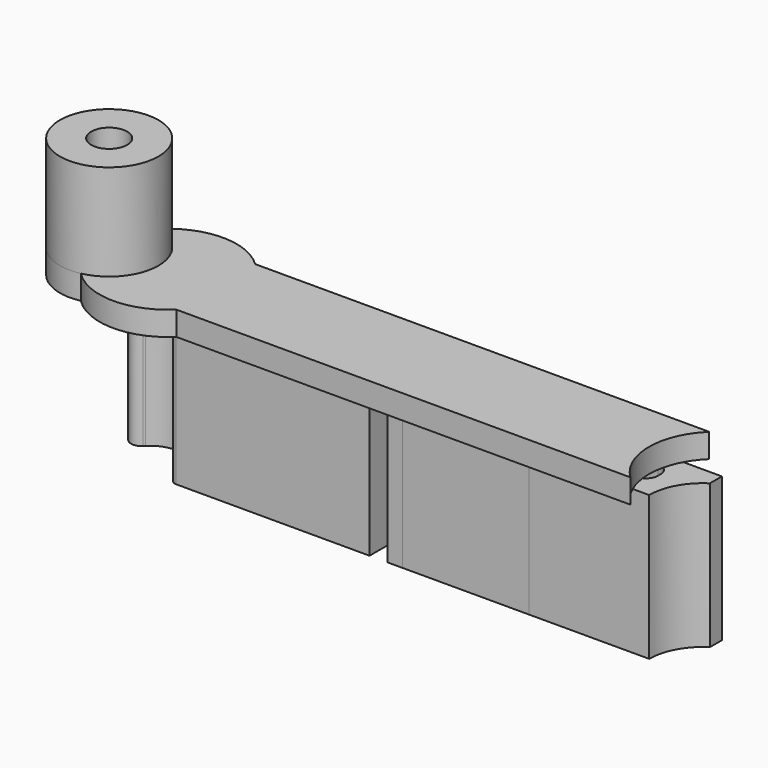
from build123d import *

# Parameters (mm, degrees)
F1_DEPTH = 2
F2_R     = 4.1
F2_R_2   = 1.5
F3_DEPTH = 8
F5_DEPTH = 12


with BuildPart() as f1:
    # F0 (on Top) → F1 (new body)
    with BuildSketch(Plane.XY):
        with BuildLine():
            ThreePointArc((-16.1402020254, 4.1), (-20.1, 5.7), (-24.0597979746, 4.1))
            Line((-24.0597979746, 4.1), (-16.1402020254, 4.1))
        make_face()
        with BuildLine():
            Line((-16.1402020254, 4.1), (-24.0597979746, 4.1))
            ThreePointArc((-24.0597979746, 4.1), (-24.1051466384, 4.0557120713), (-24.15, 4.0109225871))
            ThreePointArc((-24.15, 4.0109225871), (-29.1, 0), (-24.15, -4.0109225871))
            ThreePointArc((-24.15, -4.0109225871), (-24.1051466384, -4.0557120713), (-24.0597979746, -4.1))
            Line((-24.0597979746, -4.1), (-16.1402020254, -4.1))
            Line((-16.1402020254, -4.1), (21.6402020254, -4.1))
            ThreePointArc((21.6402020254, -4.1), (19.9, 0), (21.6402020254, 4.1))
            Line((21.6402020254, 4.1), (-16.1402020254, 4.1))
        make_face()
        with BuildLine():
            Line((-16.1402020254, -4.1), (-24.0597979746, -4.1))
            ThreePointArc((-24.0597979746, -4.1), (-20.1, -5.7), (-16.1402020254, -4.1))
        make_face()
    extrude(amount=F1_DEPTH)

    # F2 (on face) → F3 (join)
    with BuildSketch(Plane.XY.offset(2)):
        with Locations((-25, 0)):
            Circle(F2_R)
        with Locations((-25, 0)):
            Circle(F2_R_2, mode=Mode.SUBTRACT)
    extrude(amount=F3_DEPTH)

    # F4 (on face) → F5 (join)
    with BuildSketch(Plane(origin=(0, 0, 0), x_dir=(1, 0, 0), z_dir=(0, 0, -1))):
        with BuildLine():
            Line((-23.8593048022, -1.7426615038), (-22.7605585052, -2.7))
            Line((-22.7605585052, -2.7), (-1.5, -2.7))
            Line((-1.5, -2.7), (-1.5, 2.3))
            Line((-1.5, 2.3), (-17.5988609143, 2.3))
            ThreePointArc((-17.5988609143, 2.3), (-17.986159249, 2.116227766), (-18.0887588629, 1.7))
            ThreePointArc((-18.0887588629, 1.7), (-19.4175132364, -1.1369373376), (-22.5168783934, -0.6811553006))
            Line((-22.5168783934, -0.6811553006), (-22.6406951978, -0.5573384962))
            ThreePointArc((-22.6406951978, -0.5573384962), (-23.8426615038, -0.5406951978), (-23.8593048022, -1.7426615038))
        make_face()
        with BuildLine():
            ThreePointArc((-15.5, -1.45), (-16.2071067812, -1.1571067812), (-16.5, -0.45))
            Line((-16.5, -0.45), (-16.5, -0.2))
            ThreePointArc((-16.5, -0.2), (-16.2071067812, 0.5071067812), (-15.5, 0.8))
            Line((-15.5, 0.8), (-10.75, 0.8))
            ThreePointArc((-10.75, 0.8), (-10.0428932188, 0.5071067812), (-9.75, -0.2))
            Line((-9.75, -0.2), (-9.75, -0.45))
            ThreePointArc((-9.75, -0.45), (-10.0428932188, -1.1571067812), (-10.75, -1.45))
            Line((-10.75, -1.45), (-15.5, -1.45))
        make_face(mode=Mode.SUBTRACT)
        with BuildLine():
            Line((-2.75, -0.2), (-2.75, -0.45))
            ThreePointArc((-2.75, -0.45), (-3.0428932188, -1.1571067812), (-3.75, -1.45))
            Line((-3.75, -1.45), (-7.5, -1.45))
            ThreePointArc((-7.5, -1.45), (-8.2071067812, -1.1571067812), (-8.5, -0.45))
            Line((-8.5, -0.45), (-8.5, -0.2))
            ThreePointArc((-8.5, -0.2), (-8.2071067812, 0.5071067812), (-7.5, 0.8))
            Line((-7.5, 0.8), (-3.75, 0.8))
            ThreePointArc((-3.75, 0.8), (-3.0428932188, 0.5071067812), (-2.75, -0.2))
        make_face(mode=Mode.SUBTRACT)
        with BuildLine():
            Line((0, 2.3), (0, -2.7))
            Line((0, -2.7), (23.7999915966, -2.72))
            Line((23.7999915966, -2.72), (23.7999915966, -1.47))
            ThreePointArc((23.7999915966, -1.47), (22.2959243854, 0.1440913013), (21.75, 2.281724448))
            Line((21.75, 2.281724448), (11.7499999993, 2.2901270007))
            Line((11.7499999993, 2.2901270007), (1.25, 2.2989496809))
            Line((1.25, 2.2989496809), (0, 2.3))
        make_face()
        with BuildLine():
            ThreePointArc((2.25, -1.47), (1.5428932188, -1.1771067812), (1.25, -0.47))
            Line((1.25, -0.47), (1.25, -0.2))
            ThreePointArc((1.25, -0.2), (1.5428932188, 0.5071067812), (2.25, 0.8))
            Line((2.25, 0.8), (9.5, 0.8))
            ThreePointArc((9.5, 0.8), (10.2071067812, 0.5071067812), (10.5, -0.2))
            Line((10.5, -0.2), (10.5, -0.47))
            ThreePointArc((10.5, -0.47), (10.2071067812, -1.1771067812), (9.5, -1.47))
            Line((9.5, -1.47), (2.25, -1.47))
        make_face(mode=Mode.SUBTRACT)
        with BuildLine():
            ThreePointArc((12.75, -1.47), (12.0428932188, -1.1771067812), (11.75, -0.47))
            Line((11.75, -0.47), (11.75, -0.2))
            ThreePointArc((11.75, -0.2), (12.0428932188, 0.5071067812), (12.75, 0.8))
            Line((12.75, 0.8), (19.5, 0.8))
            ThreePointArc((19.5, 0.8), (20.2071067812, 0.5071067812), (20.5, -0.2))
            Line((20.5, -0.2), (20.5, -0.47))
            ThreePointArc((20.5, -0.47), (20.2071067812, -1.1771067812), (19.5, -1.47))
            Line((19.5, -1.47), (12.75, -1.47))
        make_face(mode=Mode.SUBTRACT)
    extrude(amount=F5_DEPTH)


solid = f1.part
